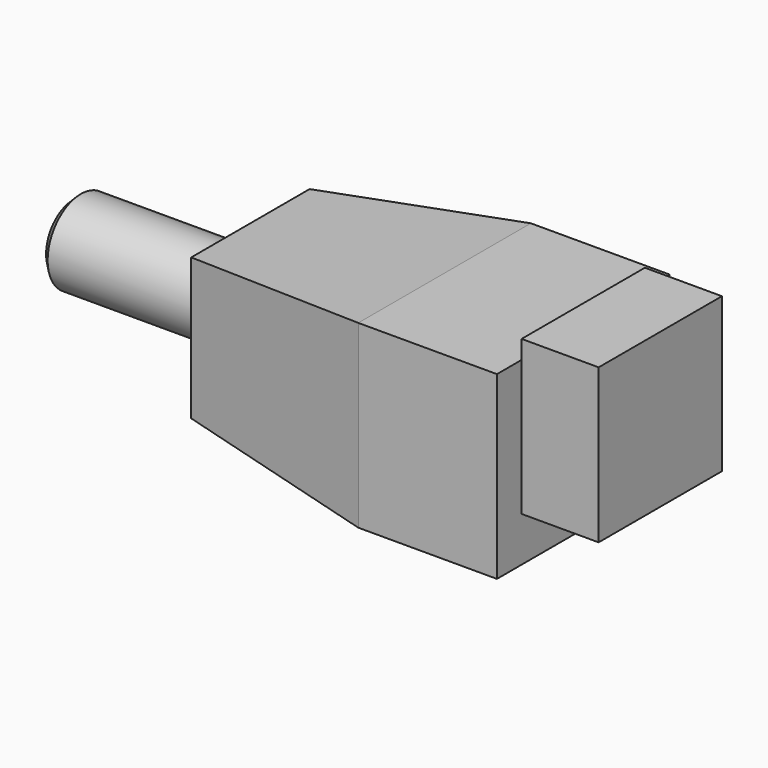
from build123d import *

# Parameters (mm, degrees)
F1_DEPTH = 11.7
F3_DEPTH = 14
F4_R     = 2.7
F5_DEPTH = 11.5
F6_SIZE  = 0.5
F7_W     = 10
F7_H     = 10
F8_DEPTH = 5


with BuildPart() as f1:
    # F0 (on Top) → F1 (new body)
    with BuildSketch(Plane.XY):
        Polygon((0, 4.8), (0, 0), (0, -4.8), (12.6, -7), (21.6, -7), (21.6, 0), (21.6, 7), (12.6, 7), align=None)
    extrude(amount=F1_DEPTH)

    # F2 (on face) → F3 (cut, through all)
    with BuildSketch(Plane.XZ.offset(7)):
        Polygon((0, 10.45), (12.6, 11.7), (0, 11.7), align=None)
        Polygon((0, 0), (12.6, 0), (0, 1.25), align=None)
    extrude(amount=-F3_DEPTH, mode=Mode.SUBTRACT)

    # F4 (on face) → F5 (join)
    with BuildSketch(Plane(origin=(0, 0, 0), x_dir=(0, -1, 0), z_dir=(-1, 0, 0))):
        with Locations((0, 5.85)):
            Circle(F4_R)
    extrude(amount=F5_DEPTH)

    # F6
    f6_edges = [f1.edges().sort_by_distance(p)[0] for p in [
        (-11.5, 2.7, 5.85),
    ]]
    chamfer(f6_edges, length=F6_SIZE)

    # F7 (on face) → F8 (join)
    with BuildSketch(Plane.YZ.offset(21.6)):
        with Locations((0, 7.9)):
            Rectangle(F7_W, F7_H)
    extrude(amount=F8_DEPTH)


solid = f1.part
